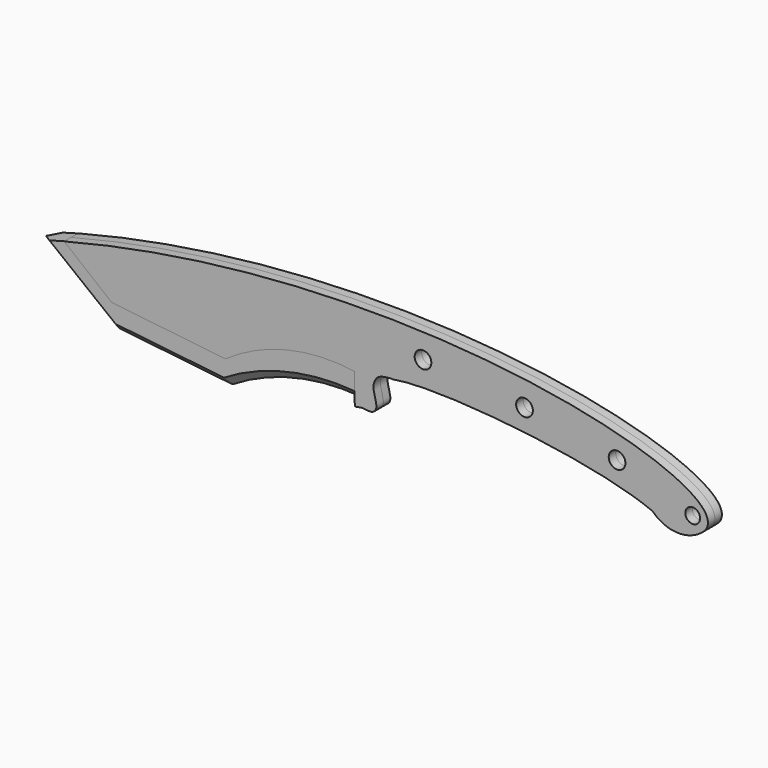
from build123d import *

# Parameters (mm, degrees)
F0_R     = 1.7183462858
F0_R_2   = 1.9433304257
F1_DEPTH = 2.032
F2_DEPTH = 1.9685
F3_SIZE  = 1.9558


with BuildPart() as f1:
    # F0 (on Front) → F1 (new body, symmetric)
    with BuildSketch(Plane.XZ):
        with BuildLine():
            add(Edge.make_bspline(
                [(-69.4708521305, 27.8661746463), (9.9840074996, 48.3840374301), (88.6448394765, 28.3458042164), (79.7140001511, 17.11815963)],
                knots=[0, 0, 0, 0, 149.5715212769, 149.5715212769, 149.5715212769, 149.5715212769], degree=3))
            Line((-69.4708521305, 27.8661746463), (-58.416051983, 18.9473896535))
            Line((-58.416051983, 18.9473896535), (-31.9135673344, 15.9977936665))
            ThreePointArc((-31.9135673344, 15.9977936665), (-17.587248866, 22.496253846), (-1.8718601204, 23.2033197119))
            Line((-1.8718601204, 23.2033197119), (-1.8718601204, 17.1581197119))
            Line((-1.8718601204, 17.1581197119), (-1.7470429884, 16.0378757864))
            Line((-1.7470429884, 16.0378757864), (0, 16.3187892042))
            add(Edge.make_bspline(
                [(0, 16.3187892042), (1.1555836561, 16.1358642079), (2.4484324817, 15.997535248), (3.6587214867, 17.5650119091), (2.2311991111, 21.138574202), (2.905895152, 23.1272157659), (3.8305041791, 24.4810397347), (7.1120347588, 24.4810397347)],
                knots=[0, 0, 0, 0, 0.1918644192, 0.3403730345, 0.5748171352, 0.7376421873, 1, 1, 1, 1], degree=3))
            add(Edge.make_bspline(
                [(7.1120347588, 24.4810397347), (17.9456137121, 26.5047568312), (53.7778158942, 22.9459838156), (67.5089657307, 17.11815963)],
                knots=[0, 0, 0, 0, 60.8440734522, 60.8440734522, 60.8440734522, 60.8440734522], degree=3))
            ThreePointArc((67.5089657307, 17.11815963), (73.6114829409, 14.5682282529), (79.7140001511, 17.11815963))
        make_face()
        with Locations((76.8559649587, 19.2392915487)):
            Circle(F0_R, mode=Mode.SUBTRACT)
        with Locations((37.6955829561, 28.6768935621)):
            Circle(F0_R_2, mode=Mode.SUBTRACT)
        with Locations((59.2509422454, 24.8946035713)):
            Circle(F0_R_2, mode=Mode.SUBTRACT)
        with Locations((14.0698300675, 30.7800769806)):
            Circle(F0_R_2, mode=Mode.SUBTRACT)
    extrude(amount=F1_DEPTH, both=True)


with BuildPart() as f2:
    # F0 (on Front) → F2 (new body, symmetric)
    with BuildSketch(Plane.XZ):
        Polygon((-58.416051983, 18.9473896535), (-69.4708521305, 27.8661746463), (-75.3010624319, 26.2683352044), (-58.3175272241, 12.9021896535), align=None)
        Polygon((-31.9135673344, 15.9977936665), (-58.416051983, 18.9473896535), (-58.3175272241, 12.9021896535), (-31.9135673344, 9.9635589868), align=None)
        with BuildLine():
            ThreePointArc((-1.8718601204, 23.2033197119), (-17.587248866, 22.496253846), (-31.9135673344, 15.9977936665))
            Line((-31.9135673344, 15.9977936665), (-31.9135673344, 9.9635589868))
            ThreePointArc((-31.9135673344, 9.9635589868), (-17.478765048, 16.0079633445), (-1.8718601204, 17.1581197119))
            Line((-1.8718601204, 17.1581197119), (-1.8718601204, 23.2033197119))
        make_face()
    extrude(amount=F2_DEPTH, both=True)

    # F3
    f3_edges = [f2.edges().sort_by_distance(p)[0] for p in [
        (-17.478765, -1.9685, 16.007963),
        (-17.478765, 1.9685, 16.007963),
        (-45.115547, -1.9685, 11.432874),
        (-45.115547, 1.9685, 11.432874),
        (-66.809295, -1.9685, 19.585262),
        (-66.809295, 1.9685, 19.585262),
    ]]
    chamfer(f3_edges, length=F3_SIZE)


solid = Compound([f1.part, f2.part])
